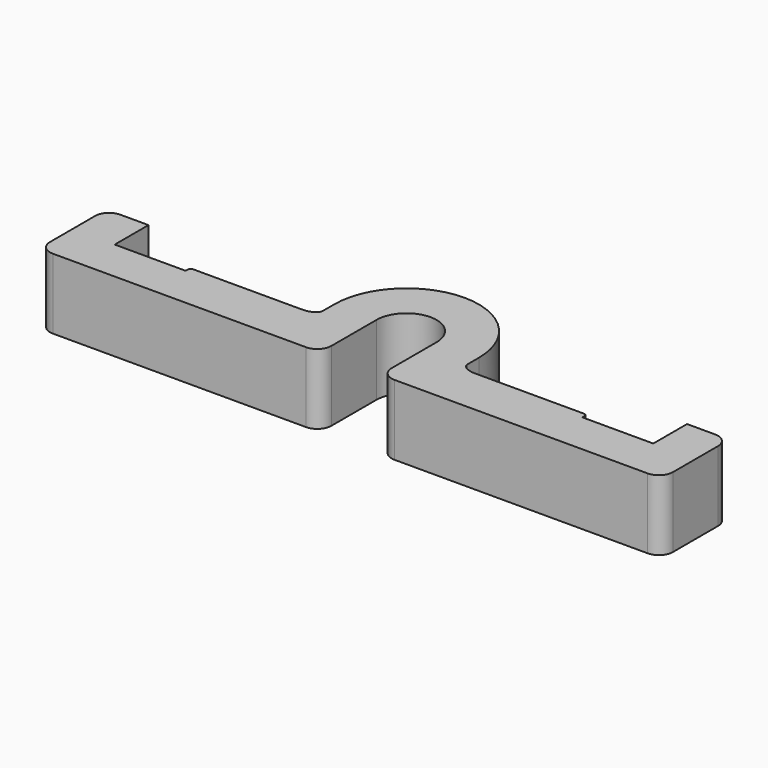
from build123d import *

# Parameters (mm, degrees)
F1_DEPTH = 25


with BuildPart() as f1:
    # F0 (on Top) → F1 (new body)
    with BuildSketch(Plane.XY):
        with BuildLine():
            ThreePointArc((-10.7, 0), (0, 10.7), (10.7, 0))
            Line((10.7, 0), (10.7, -20))
            ThreePointArc((10.7, -20), (12.1644660941, -23.5355339059), (15.7, -25))
            Line((15.7, -25), (105.7, -25))
            ThreePointArc((105.7, -25), (109.2355339059, -23.5355339059), (110.7, -20))
            Line((110.7, -20), (110.7, -10))
            Line((110.7, -10), (110.7, 0))
            ThreePointArc((110.7, 0), (109.2355339059, 3.5355339059), (105.7, 5))
            Line((105.7, 5), (95.7, 5))
            Line((95.7, 5), (95.7, -10))
            Line((95.7, -10), (70.5, -10))
            Line((70.5, -10), (70.5, -9))
            ThreePointArc((70.5, -9), (70.2071067812, -8.2928932188), (69.5, -8))
            Line((69.5, -8), (30.7, -8))
            add(Edge.make_bspline(
                [(25.7, -5), (25.7, -8), (30.7, -8)],
                knots=[0, 0, 0, 1.5707963268, 1.5707963268, 1.5707963268], degree=2, weights=[1, 0.7071067812, 1]))
            Line((25.7, -5), (25.7, 0))
            ThreePointArc((25.7, 0), (0, 25.7), (-25.7, 0))
            Line((-25.7, 0), (-25.7, -5))
            add(Edge.make_bspline(
                [(-30.7, -8), (-25.7, -8), (-25.7, -5)],
                knots=[4.7123889804, 4.7123889804, 4.7123889804, 6.2831853072, 6.2831853072, 6.2831853072], degree=2, weights=[1, 0.7071067812, 1]))
            Line((-30.7, -8), (-69.5, -8))
            ThreePointArc((-69.5, -8), (-70.2071067812, -8.2928932188), (-70.5, -9))
            Line((-70.5, -9), (-70.5, -10))
            Line((-70.5, -10), (-95.7, -10))
            Line((-95.7, -10), (-95.7, 5))
            Line((-95.7, 5), (-105.7, 5))
            ThreePointArc((-105.7, 5), (-109.2355339059, 3.5355339059), (-110.7, 0))
            Line((-110.7, 0), (-110.7, -10))
            Line((-110.7, -10), (-110.7, -20))
            ThreePointArc((-110.7, -20), (-109.2355339059, -23.5355339059), (-105.7, -25))
            Line((-105.7, -25), (-15.7, -25))
            ThreePointArc((-15.7, -25), (-12.1644660941, -23.5355339059), (-10.7, -20))
            Line((-10.7, -20), (-10.7, 0))
        make_face()
    extrude(amount=F1_DEPTH)


solid = f1.part
